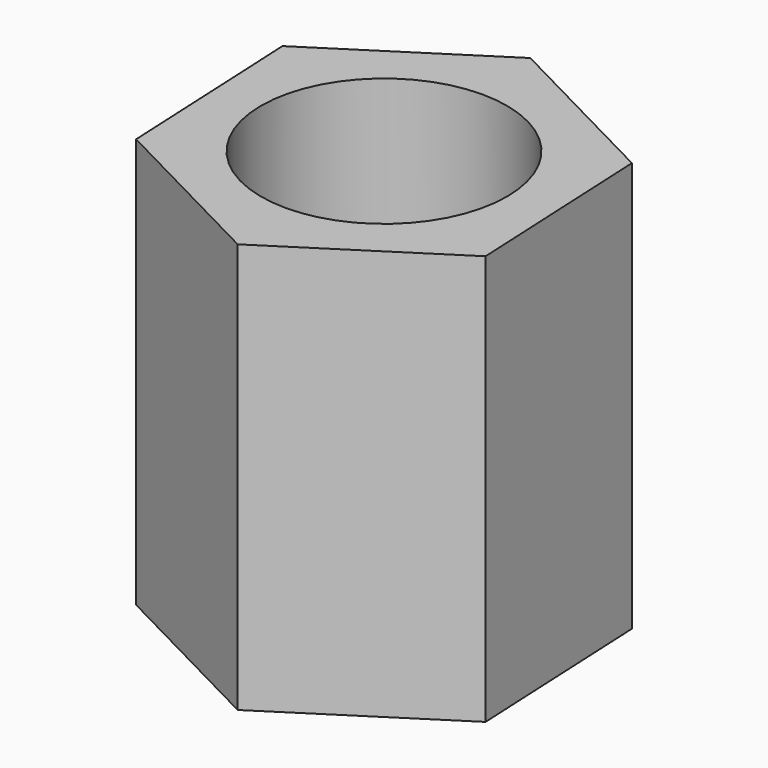
from build123d import *

# Parameters (mm, degrees)
F2_DEPTH = 22.5
F3_R     = 6.75
F4_DEPTH = 25


with BuildPart() as f2:
    # F0 (on Top) → F2 (new body)
    with BuildSketch(Plane.XY):
        Polygon((-0.505125, 10.669029), (-9.492213, 4.897064), (-8.987088, -5.771965), (0.505125, -10.669029), (9.492213, -4.897064), (8.987088, 5.771965), align=None)
    extrude(amount=F2_DEPTH)

    # F3 (on face) → F4 (cut)
    with BuildSketch(Plane.XY):
        Circle(F3_R)
    extrude(amount=F4_DEPTH, mode=Mode.SUBTRACT)


solid = f2.part
